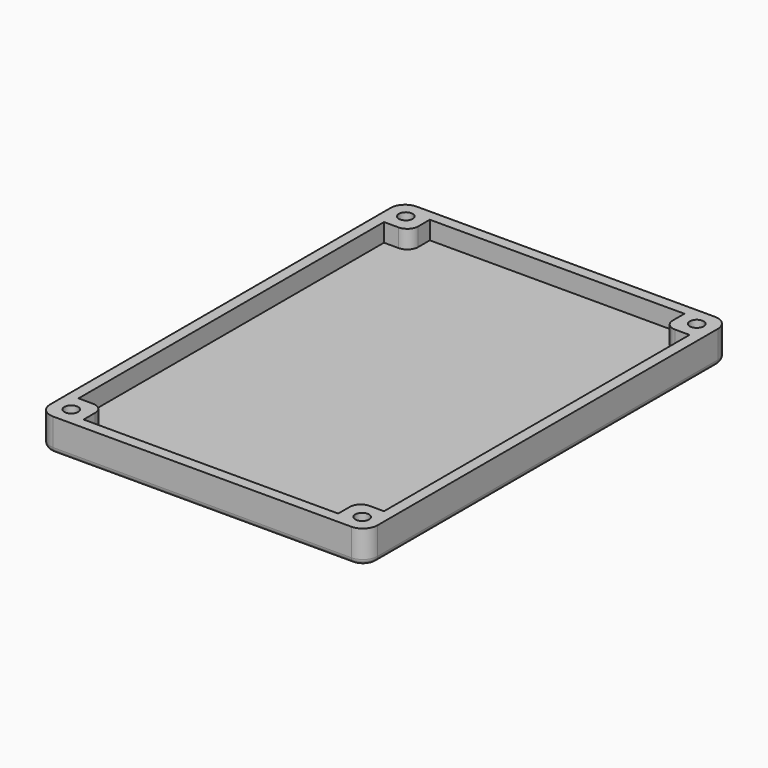
from build123d import *

# Parameters (mm, degrees)
F1_DEPTH = 4
F2_W     = 3
F2_H     = 105
F2_W_2   = 70
F2_H_2   = 3
F2_R     = 1.9
F3_DEPTH = 5
F4_R     = 1.5
F5_DEPTH = 25
F6_DEPTH = 25
F7_DEPTH = 25
F8_DEPTH = 25


with BuildPart() as f1:
    # F0 (on Top) → F1 (new body)
    with BuildSketch(Plane.XY):
        with BuildLine():
            Line((41, 62.5), (-41, 62.5))
            ThreePointArc((-41, 62.5), (-43.8284271247, 61.3284271247), (-45, 58.5))
            Line((-45, 58.5), (-45, -58.5))
            ThreePointArc((-45, -58.5), (-43.8284271247, -61.3284271247), (-41, -62.5))
            Line((-41, -62.5), (41, -62.5))
            ThreePointArc((41, -62.5), (43.8284271247, -61.3284271247), (45, -58.5))
            Line((45, -58.5), (45, 58.5))
            ThreePointArc((45, 58.5), (43.8284271247, 61.3284271247), (41, 62.5))
        make_face()
    extrude(amount=F1_DEPTH)

    # F2 (on face) → F3 (join)
    with BuildSketch(Plane.XY.offset(4)):
        with Locations((43.5, 0)):
            Rectangle(F2_W, F2_H)
        with Locations((0, -61)):
            Rectangle(F2_W_2, F2_H_2)
        with Locations((-43.5, 0)):
            Rectangle(F2_W, F2_H)
        with Locations((0, 61)):
            Rectangle(F2_W_2, F2_H_2)
        with BuildLine():
            Line((-45, 58.5), (-45, 52.5))
            Line((-45, 52.5), (-42, 52.5))
            Line((-42, 52.5), (-38, 52.5))
            ThreePointArc((-38, 52.5), (-35.8786796564, 53.3786796564), (-35, 55.5))
            Line((-35, 55.5), (-35, 59.5))
            Line((-35, 59.5), (-35, 62.5))
            Line((-35, 62.5), (-41, 62.5))
            ThreePointArc((-41, 62.5), (-43.8284271247, 61.3284271247), (-45, 58.5))
        make_face()
        with Locations((-40, 57.5)):
            Circle(F2_R, mode=Mode.SUBTRACT)
        with BuildLine():
            Line((41, 62.5), (35, 62.5))
            Line((35, 62.5), (35, 59.5))
            Line((35, 59.5), (35, 55.5))
            ThreePointArc((35, 55.5), (35.8786796564, 53.3786796564), (38, 52.5))
            Line((38, 52.5), (42, 52.5))
            Line((42, 52.5), (45, 52.5))
            Line((45, 52.5), (45, 58.5))
            ThreePointArc((45, 58.5), (43.8284271247, 61.3284271247), (41, 62.5))
        make_face()
        with Locations((40, 57.5)):
            Circle(F2_R, mode=Mode.SUBTRACT)
        with BuildLine():
            Line((35, -59.5), (35, -62.5))
            Line((35, -62.5), (41, -62.5))
            ThreePointArc((41, -62.5), (43.8284271247, -61.3284271247), (45, -58.5))
            Line((45, -58.5), (45, -52.5))
            Line((45, -52.5), (42, -52.5))
            Line((42, -52.5), (38, -52.5))
            ThreePointArc((38, -52.5), (35.8786796564, -53.3786796564), (35, -55.5))
            Line((35, -55.5), (35, -59.5))
        make_face()
        with Locations((40, -57.5)):
            Circle(F2_R, mode=Mode.SUBTRACT)
        with BuildLine():
            Line((-42, -52.5), (-45, -52.5))
            Line((-45, -52.5), (-45, -58.5))
            ThreePointArc((-45, -58.5), (-43.8284271247, -61.3284271247), (-41, -62.5))
            Line((-41, -62.5), (-35, -62.5))
            Line((-35, -62.5), (-35, -59.5))
            Line((-35, -59.5), (-35, -55.5))
            ThreePointArc((-35, -55.5), (-35.8786796564, -53.3786796564), (-38, -52.5))
            Line((-38, -52.5), (-42, -52.5))
        make_face()
        with Locations((-40, -57.5)):
            Circle(F2_R, mode=Mode.SUBTRACT)
    extrude(amount=F3_DEPTH)

    # F4
    f4_edges = [f1.edges().sort_by_distance(p)[0] for p in [
        (0, 62.5, 0),
        (-43.828427, 61.328427, 0),
        (-45, 0, 0),
        (-43.828427, -61.328427, 0),
        (0, -62.5, 0),
        (43.828427, -61.328427, 0),
        (45, 0, 0),
        (43.828427, 61.328427, 0),
    ]]
    fillet(f4_edges, radius=F4_R)

    # F5 (cut): a face of the model
    f5_faces = [f1.faces().sort_by_distance(p)[0] for p in [
        (-40, 57.5, 4),
    ]]
    extrude(f5_faces, amount=-F5_DEPTH, mode=Mode.SUBTRACT)

    # F6 (cut): a face of the model
    f6_faces = [f1.faces().sort_by_distance(p)[0] for p in [
        (40, 57.5, 4),
    ]]
    extrude(f6_faces, amount=-F6_DEPTH, mode=Mode.SUBTRACT)

    # F7 (cut): a face of the model
    f7_faces = [f1.faces().sort_by_distance(p)[0] for p in [
        (40, -57.5, 4),
    ]]
    extrude(f7_faces, amount=-F7_DEPTH, mode=Mode.SUBTRACT)

    # F8 (cut): a face of the model
    f8_faces = [f1.faces().sort_by_distance(p)[0] for p in [
        (-40, -57.5, 4),
    ]]
    extrude(f8_faces, amount=-F8_DEPTH, mode=Mode.SUBTRACT)


solid = f1.part
